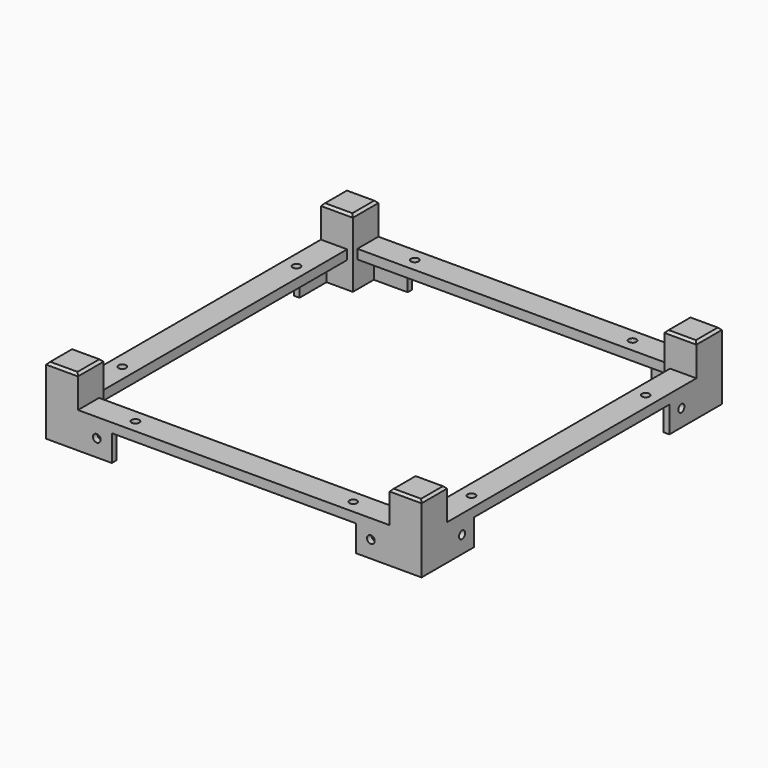
from build123d import *

# Parameters (mm, degrees)
CUBE033_W                     = 9.5
CUBE033_H                     = 9.5
CUBE033_DEPTH                 = 100
CUBE033_ROLL_ANGLE            = 45
CUBE033_PLACEMENT_ANGLE       = 180
CUBE032_W                     = 9.5
CUBE032_H                     = 9.5
CUBE032_DEPTH                 = 100
CUBE032_PLACEMENT_ANGLE       = 45
CUBE035_W                     = 9.5
CUBE035_H                     = 9.5
CUBE035_DEPTH                 = 100
CUBE035_ROLL_ANGLE            = 45
CUBE035_PLACEMENT_ANGLE       = -90
CUBE034_W                     = 9.5
CUBE034_H                     = 9.5
CUBE034_DEPTH                 = 100
CUBE034_PLACEMENT_ANGLE       = 45
CUBE031_W                     = 9.5
CUBE031_H                     = 9.5
CUBE031_DEPTH                 = 100
CUBE031_ROLL_ANGLE            = 45
CUBE031_PLACEMENT_ANGLE       = 90
CUBE030_W                     = 9.5
CUBE030_H                     = 9.5
CUBE030_DEPTH                 = 100
CUBE030_PLACEMENT_ANGLE       = 45
CUBE029_W                     = 8.5
CUBE029_H                     = 8.5
CUBE029_DEPTH                 = 18
DIFFERENCE011_PLACEMENT_ANGLE = 90
CUBE026_W                     = 9.5
CUBE026_H                     = 9.5
CUBE026_DEPTH                 = 100
CUBE026_ROLL_ANGLE            = 45
CUBE026_PLACEMENT_ANGLE       = 180
CUBE025_W                     = 9.5
CUBE025_H                     = 9.5
CUBE025_DEPTH                 = 100
CUBE025_PLACEMENT_ANGLE       = 45
CUBE028_W                     = 9.5
CUBE028_H                     = 9.5
CUBE028_DEPTH                 = 100
CUBE028_ROLL_ANGLE            = 45
CUBE028_PLACEMENT_ANGLE       = -90
CUBE027_W                     = 9.5
CUBE027_H                     = 9.5
CUBE027_DEPTH                 = 100
CUBE027_PLACEMENT_ANGLE       = 45
CUBE024_W                     = 9.5
CUBE024_H                     = 9.5
CUBE024_DEPTH                 = 100
CUBE024_ROLL_ANGLE            = 45
CUBE024_PLACEMENT_ANGLE       = 90
CUBE023_W                     = 9.5
CUBE023_H                     = 9.5
CUBE023_DEPTH                 = 100
CUBE023_PLACEMENT_ANGLE       = 45
CUBE022_W                     = 8.5
CUBE022_H                     = 8.5
CUBE022_DEPTH                 = 18
CUBE047_W                     = 9.5
CUBE047_H                     = 9.5
CUBE047_DEPTH                 = 100
CUBE047_ROLL_ANGLE            = 45
CUBE047_PLACEMENT_ANGLE       = 180
CUBE046_W                     = 9.5
CUBE046_H                     = 9.5
CUBE046_DEPTH                 = 100
CUBE046_PLACEMENT_ANGLE       = 45
CUBE049_W                     = 9.5
CUBE049_H                     = 9.5
CUBE049_DEPTH                 = 100
CUBE049_ROLL_ANGLE            = 45
CUBE049_PLACEMENT_ANGLE       = -90
CUBE048_W                     = 9.5
CUBE048_H                     = 9.5
CUBE048_DEPTH                 = 100
CUBE048_PLACEMENT_ANGLE       = 45
CUBE045_W                     = 9.5
CUBE045_H                     = 9.5
CUBE045_DEPTH                 = 100
CUBE045_ROLL_ANGLE            = 45
CUBE045_PLACEMENT_ANGLE       = 90
CUBE044_W                     = 9.5
CUBE044_H                     = 9.5
CUBE044_DEPTH                 = 100
CUBE044_PLACEMENT_ANGLE       = 45
CUBE043_W                     = 8.5
CUBE043_H                     = 8.5
CUBE043_DEPTH                 = 18
DIFFERENCE013_PLACEMENT_ANGLE = 180
CUBE040_W                     = 9.5
CUBE040_H                     = 9.5
CUBE040_DEPTH                 = 100
CUBE040_ROLL_ANGLE            = 45
CUBE040_PLACEMENT_ANGLE       = 180
CUBE039_W                     = 9.5
CUBE039_H                     = 9.5
CUBE039_DEPTH                 = 100
CUBE039_PLACEMENT_ANGLE       = 45
CUBE042_W                     = 9.5
CUBE042_H                     = 9.5
CUBE042_DEPTH                 = 100
CUBE042_ROLL_ANGLE            = 45
CUBE042_PLACEMENT_ANGLE       = -90
CUBE041_W                     = 9.5
CUBE041_H                     = 9.5
CUBE041_DEPTH                 = 100
CUBE041_PLACEMENT_ANGLE       = 45
CUBE038_W                     = 9.5
CUBE038_H                     = 9.5
CUBE038_DEPTH                 = 100
CUBE038_ROLL_ANGLE            = 45
CUBE038_PLACEMENT_ANGLE       = 90
CUBE037_W                     = 9.5
CUBE037_H                     = 9.5
CUBE037_DEPTH                 = 100
CUBE037_PLACEMENT_ANGLE       = 45
CUBE036_W                     = 8.5
CUBE036_H                     = 8.5
CUBE036_DEPTH                 = 18
CUBE061_W                     = 9.5
CUBE061_H                     = 9.5
CUBE061_DEPTH                 = 100
CUBE061_ROLL_ANGLE            = 45
CUBE061_PLACEMENT_ANGLE       = 180
CUBE060_W                     = 9.5
CUBE060_H                     = 9.5
CUBE060_DEPTH                 = 100
CUBE060_PLACEMENT_ANGLE       = 45
CUBE063_W                     = 9.5
CUBE063_H                     = 9.5
CUBE063_DEPTH                 = 100
CUBE063_ROLL_ANGLE            = 45
CUBE063_PLACEMENT_ANGLE       = -90
CUBE062_W                     = 9.5
CUBE062_H                     = 9.5
CUBE062_DEPTH                 = 100
CUBE062_PLACEMENT_ANGLE       = 45
CUBE059_W                     = 9.5
CUBE059_H                     = 9.5
CUBE059_DEPTH                 = 100
CUBE059_ROLL_ANGLE            = 45
CUBE059_PLACEMENT_ANGLE       = 90
CUBE058_W                     = 9.5
CUBE058_H                     = 9.5
CUBE058_DEPTH                 = 100
CUBE058_PLACEMENT_ANGLE       = 45
CUBE057_W                     = 8.5
CUBE057_H                     = 8.5
CUBE057_DEPTH                 = 18
DIFFERENCE015_PLACEMENT_ANGLE = 90
CUBE054_W                     = 9.5
CUBE054_H                     = 9.5
CUBE054_DEPTH                 = 100
CUBE054_ROLL_ANGLE            = 45
CUBE054_PLACEMENT_ANGLE       = 180
CUBE053_W                     = 9.5
CUBE053_H                     = 9.5
CUBE053_DEPTH                 = 100
CUBE053_PLACEMENT_ANGLE       = 45
CUBE056_W                     = 9.5
CUBE056_H                     = 9.5
CUBE056_DEPTH                 = 100
CUBE056_ROLL_ANGLE            = 45
CUBE056_PLACEMENT_ANGLE       = -90
CUBE055_W                     = 9.5
CUBE055_H                     = 9.5
CUBE055_DEPTH                 = 100
CUBE055_PLACEMENT_ANGLE       = 45
CUBE052_W                     = 9.5
CUBE052_H                     = 9.5
CUBE052_DEPTH                 = 100
CUBE052_ROLL_ANGLE            = 45
CUBE052_PLACEMENT_ANGLE       = 90
CUBE051_W                     = 9.5
CUBE051_H                     = 9.5
CUBE051_DEPTH                 = 100
CUBE051_PLACEMENT_ANGLE       = 45
CUBE050_W                     = 8.5
CUBE050_H                     = 8.5
CUBE050_DEPTH                 = 18
CUBE019_W                     = 9.5
CUBE019_H                     = 9.5
CUBE019_DEPTH                 = 100
CUBE019_ROLL_ANGLE            = 45
CUBE019_PLACEMENT_ANGLE       = 180
CUBE018_W                     = 9.5
CUBE018_H                     = 9.5
CUBE018_DEPTH                 = 100
CUBE018_PLACEMENT_ANGLE       = 45
CUBE021_W                     = 9.5
CUBE021_H                     = 9.5
CUBE021_DEPTH                 = 100
CUBE021_ROLL_ANGLE            = 45
CUBE021_PLACEMENT_ANGLE       = -90
CUBE020_W                     = 9.5
CUBE020_H                     = 9.5
CUBE020_DEPTH                 = 100
CUBE020_PLACEMENT_ANGLE       = 45
CUBE017_W                     = 9.5
CUBE017_H                     = 9.5
CUBE017_DEPTH                 = 100
CUBE017_ROLL_ANGLE            = 45
CUBE017_PLACEMENT_ANGLE       = 90
CUBE016_W                     = 9.5
CUBE016_H                     = 9.5
CUBE016_DEPTH                 = 100
CUBE016_PLACEMENT_ANGLE       = 45
CUBE015_W                     = 8.5
CUBE015_H                     = 8.5
CUBE015_DEPTH                 = 18
CUBE012_W                     = 9.5
CUBE012_H                     = 9.5
CUBE012_DEPTH                 = 100
CUBE012_ROLL_ANGLE            = 45
CUBE012_PLACEMENT_ANGLE       = 180
CUBE011_W                     = 9.5
CUBE011_H                     = 9.5
CUBE011_DEPTH                 = 100
CUBE011_PLACEMENT_ANGLE       = 45
CUBE014_W                     = 9.5
CUBE014_H                     = 9.5
CUBE014_DEPTH                 = 100
CUBE014_ROLL_ANGLE            = 45
CUBE014_PLACEMENT_ANGLE       = -90
CUBE013_W                     = 9.5
CUBE013_H                     = 9.5
CUBE013_DEPTH                 = 100
CUBE013_PLACEMENT_ANGLE       = 45
CUBE010_W                     = 9.5
CUBE010_H                     = 9.5
CUBE010_DEPTH                 = 100
CUBE010_ROLL_ANGLE            = 45
CUBE010_PLACEMENT_ANGLE       = 90
CUBE009_W                     = 9.5
CUBE009_H                     = 9.5
CUBE009_DEPTH                 = 100
CUBE009_PLACEMENT_ANGLE       = 45
CUBE008_W                     = 8.5
CUBE008_H                     = 8.5
CUBE008_DEPTH                 = 18
CYLINDER023_R                 = 1.025
CYLINDER023_DEPTH             = 500
CYLINDER022_R                 = 1.025
CYLINDER022_DEPTH             = 500
CYLINDER021_R                 = 1.025
CYLINDER021_DEPTH             = 500
CYLINDER020_R                 = 1.025
CYLINDER020_DEPTH             = 500
GROUP060_PLACEMENT_ANGLE      = 90
CYLINDER027_R                 = 1.025
CYLINDER027_DEPTH             = 500
CYLINDER026_R                 = 1.025
CYLINDER026_DEPTH             = 500
CYLINDER025_R                 = 1.025
CYLINDER025_DEPTH             = 500
CYLINDER024_R                 = 1.025
CYLINDER024_DEPTH             = 500
GROUP063_PLACEMENT_ANGLE      = 180
CYLINDER031_R                 = 1.025
CYLINDER031_DEPTH             = 500
CYLINDER030_R                 = 1.025
CYLINDER030_DEPTH             = 500
CYLINDER029_R                 = 1.025
CYLINDER029_DEPTH             = 500
CYLINDER028_R                 = 1.025
CYLINDER028_DEPTH             = 500
GROUP066_PLACEMENT_ANGLE      = 90
CYLINDER019_R                 = 1.025
CYLINDER019_DEPTH             = 500
CYLINDER018_R                 = 1.025
CYLINDER018_DEPTH             = 500
CYLINDER017_R                 = 1.025
CYLINDER017_DEPTH             = 500
CYLINDER016_R                 = 1.025
CYLINDER016_DEPTH             = 500
CUBE067_W                     = 1.5
CUBE067_H                     = 9
CUBE067_DEPTH                 = 9.5
CUBE066_W                     = 1.5
CUBE066_H                     = 9
CUBE066_DEPTH                 = 9.5
GROUP051_PLACEMENT_ANGLE      = 90
CUBE069_W                     = 1.5
CUBE069_H                     = 9
CUBE069_DEPTH                 = 9.5
CUBE068_W                     = 1.5
CUBE068_H                     = 9
CUBE068_DEPTH                 = 9.5
GROUP052_PLACEMENT_ANGLE      = 180
CUBE071_W                     = 1.5
CUBE071_H                     = 9
CUBE071_DEPTH                 = 9.5
CUBE070_W                     = 1.5
CUBE070_H                     = 9
CUBE070_DEPTH                 = 9.5
GROUP053_PLACEMENT_ANGLE      = 90
CUBE065_W                     = 1.5
CUBE065_H                     = 9
CUBE065_DEPTH                 = 9.5
CUBE064_W                     = 1.5
CUBE064_H                     = 9
CUBE064_DEPTH                 = 9.5
CYLINDER007_R                 = 1.025
CYLINDER007_DEPTH             = 100
CYLINDER006_R                 = 1.025
CYLINDER006_DEPTH             = 100
CUBE003_W                     = 100
CUBE003_H                     = 7
CUBE003_DEPTH                 = 2.5
DIFFERENCE003_PLACEMENT_ANGLE = 90
CYLINDER005_R                 = 1.025
CYLINDER005_DEPTH             = 100
CYLINDER004_R                 = 1.025
CYLINDER004_DEPTH             = 100
CUBE002_W                     = 100
CUBE002_H                     = 7
CUBE002_DEPTH                 = 2.5
CYLINDER011_R                 = 1.025
CYLINDER011_DEPTH             = 100
CYLINDER010_R                 = 1.025
CYLINDER010_DEPTH             = 100
CUBE005_W                     = 100
CUBE005_H                     = 7
CUBE005_DEPTH                 = 2.5
DIFFERENCE005_PLACEMENT_ANGLE = 180
CYLINDER009_R                 = 1.025
CYLINDER009_DEPTH             = 100
CYLINDER008_R                 = 1.025
CYLINDER008_DEPTH             = 100
CUBE004_W                     = 100
CUBE004_H                     = 7
CUBE004_DEPTH                 = 2.5
CYLINDER015_R                 = 1.025
CYLINDER015_DEPTH             = 100
CYLINDER014_R                 = 1.025
CYLINDER014_DEPTH             = 100
CUBE007_W                     = 100
CUBE007_H                     = 7
CUBE007_DEPTH                 = 2.5
DIFFERENCE007_PLACEMENT_ANGLE = 90
CYLINDER013_R                 = 1.025
CYLINDER013_DEPTH             = 100
CYLINDER012_R                 = 1.025
CYLINDER012_DEPTH             = 100
CUBE006_W                     = 100
CUBE006_H                     = 7
CUBE006_DEPTH                 = 2.5
CYLINDER003_R                 = 1.025
CYLINDER003_DEPTH             = 100
CYLINDER002_R                 = 1.025
CYLINDER002_DEPTH             = 100
CUBE001_W                     = 100
CUBE001_H                     = 7
CUBE001_DEPTH                 = 2.5
CYLINDER001_R                 = 1.025
CYLINDER001_DEPTH             = 100
CYLINDER_R                    = 1.025
CYLINDER_DEPTH                = 100
CUBE_W                        = 100
CUBE_H                        = 7
CUBE_DEPTH                    = 2.5


with BuildPart() as cube033:
    # cube033 → cube033 (new body)
    with BuildSketch(Plane.XY):
        with Locations((4.75, 4.75)):
            Rectangle(CUBE033_W, CUBE033_H)
    extrude(amount=CUBE033_DEPTH)


with BuildPart() as cube033_1:
    # cube033 roll: moved
    add(cube033.part.rotate(Axis((0, 0, 0), (1, 0, 0)), CUBE033_ROLL_ANGLE))


with BuildPart() as cube033_2:
    # cube033 placement: moved
    add(cube033_1.part.moved(Location((4.75, -42.346582, -38.714096))).rotate(Axis((4.75, -42.346582, -38.714096), (0, 0, 1)), CUBE033_PLACEMENT_ANGLE))


with BuildPart() as group027:
    # cube032 → cube032 (new body)
    with BuildSketch(Plane.XY):
        with Locations((4.75, 4.75)):
            Rectangle(CUBE032_W, CUBE032_H)
    extrude(amount=CUBE032_DEPTH)


with BuildPart() as group027_1:
    # cube032 placement: moved
    add(group027.part.moved(Location((-4.75, 42.346582, -38.714096))).rotate(Axis((-4.75, 42.346582, -38.714096), (1, 0, 0)), CUBE032_PLACEMENT_ANGLE))

    # Group027: union cube033
    add(cube033_2.part)


with BuildPart() as cube035:
    # cube035 → cube035 (new body)
    with BuildSketch(Plane.XY):
        with Locations((4.75, 4.75)):
            Rectangle(CUBE035_W, CUBE035_H)
    extrude(amount=CUBE035_DEPTH)


with BuildPart() as cube035_1:
    # cube035 roll: moved
    add(cube035.part.rotate(Axis((0, 0, 0), (1, 0, 0)), CUBE035_ROLL_ANGLE))


with BuildPart() as cube035_2:
    # cube035 placement: moved
    add(cube035_1.part.moved(Location((42.346582, 4.75, -38.714096))).rotate(Axis((42.346582, 4.75, -38.714096), (0, 0, 1)), CUBE035_PLACEMENT_ANGLE))


with BuildPart() as group028:
    # cube034 → cube034 (new body)
    with BuildSketch(Plane.XY):
        with Locations((4.75, 4.75)):
            Rectangle(CUBE034_W, CUBE034_H)
    extrude(amount=CUBE034_DEPTH)


with BuildPart() as group028_1:
    # cube034 placement: moved
    add(group028.part.moved(Location((-4.75, 42.346582, -38.714096))).rotate(Axis((-4.75, 42.346582, -38.714096), (1, 0, 0)), CUBE034_PLACEMENT_ANGLE))

    # Group028: union cube035
    add(cube035_2.part)


with BuildPart() as cube031:
    # cube031 → cube031 (new body)
    with BuildSketch(Plane.XY):
        with Locations((4.75, 4.75)):
            Rectangle(CUBE031_W, CUBE031_H)
    extrude(amount=CUBE031_DEPTH)


with BuildPart() as cube031_1:
    # cube031 roll: moved
    add(cube031.part.rotate(Axis((0, 0, 0), (1, 0, 0)), CUBE031_ROLL_ANGLE))


with BuildPart() as cube031_2:
    # cube031 placement: moved
    add(cube031_1.part.moved(Location((-42.346582, -4.75, -38.714096))).rotate(Axis((-42.346582, -4.75, -38.714096), (0, 0, 1)), CUBE031_PLACEMENT_ANGLE))


with BuildPart() as group029:
    # cube030 → cube030 (new body)
    with BuildSketch(Plane.XY):
        with Locations((4.75, 4.75)):
            Rectangle(CUBE030_W, CUBE030_H)
    extrude(amount=CUBE030_DEPTH)


with BuildPart() as group029_1:
    # cube030 placement: moved
    add(group029.part.moved(Location((-4.75, 42.346582, -38.714096))).rotate(Axis((-4.75, 42.346582, -38.714096), (1, 0, 0)), CUBE030_PLACEMENT_ANGLE))

    # Group026: union cube031
    add(cube031_2.part)

    # Group029: union Group027, Group028
    add(group027_1.part)
    add(group028_1.part)


with BuildPart() as difference011:
    # cube029 → cube029 (new body)
    with BuildSketch(Plane(origin=(-4.25, -4.25, -18), x_dir=(1, 0, 0), z_dir=(0, 0, 1))):
        with Locations((4.25, 4.25)):
            Rectangle(CUBE029_W, CUBE029_H)
    extrude(amount=CUBE029_DEPTH)

    # difference011: cut Group029
    add(group029_1.part, mode=Mode.SUBTRACT)


with BuildPart() as difference011_1:
    # difference011 placement: moved
    add(difference011.part.moved(Location((45.75, -45.75, 8.5))).rotate(Axis((45.75, -45.75, 8.5), (0, 0, 1)), DIFFERENCE011_PLACEMENT_ANGLE))


with BuildPart() as cube026:
    # cube026 → cube026 (new body)
    with BuildSketch(Plane.XY):
        with Locations((4.75, 4.75)):
            Rectangle(CUBE026_W, CUBE026_H)
    extrude(amount=CUBE026_DEPTH)


with BuildPart() as cube026_1:
    # cube026 roll: moved
    add(cube026.part.rotate(Axis((0, 0, 0), (1, 0, 0)), CUBE026_ROLL_ANGLE))


with BuildPart() as cube026_2:
    # cube026 placement: moved
    add(cube026_1.part.moved(Location((4.75, -42.346582, -38.714096))).rotate(Axis((4.75, -42.346582, -38.714096), (0, 0, 1)), CUBE026_PLACEMENT_ANGLE))


with BuildPart() as group023:
    # cube025 → cube025 (new body)
    with BuildSketch(Plane.XY):
        with Locations((4.75, 4.75)):
            Rectangle(CUBE025_W, CUBE025_H)
    extrude(amount=CUBE025_DEPTH)


with BuildPart() as group023_1:
    # cube025 placement: moved
    add(group023.part.moved(Location((-4.75, 42.346582, -38.714096))).rotate(Axis((-4.75, 42.346582, -38.714096), (1, 0, 0)), CUBE025_PLACEMENT_ANGLE))

    # Group023: union cube026
    add(cube026_2.part)


with BuildPart() as cube028:
    # cube028 → cube028 (new body)
    with BuildSketch(Plane.XY):
        with Locations((4.75, 4.75)):
            Rectangle(CUBE028_W, CUBE028_H)
    extrude(amount=CUBE028_DEPTH)


with BuildPart() as cube028_1:
    # cube028 roll: moved
    add(cube028.part.rotate(Axis((0, 0, 0), (1, 0, 0)), CUBE028_ROLL_ANGLE))


with BuildPart() as cube028_2:
    # cube028 placement: moved
    add(cube028_1.part.moved(Location((42.346582, 4.75, -38.714096))).rotate(Axis((42.346582, 4.75, -38.714096), (0, 0, 1)), CUBE028_PLACEMENT_ANGLE))


with BuildPart() as group024:
    # cube027 → cube027 (new body)
    with BuildSketch(Plane.XY):
        with Locations((4.75, 4.75)):
            Rectangle(CUBE027_W, CUBE027_H)
    extrude(amount=CUBE027_DEPTH)


with BuildPart() as group024_1:
    # cube027 placement: moved
    add(group024.part.moved(Location((-4.75, 42.346582, -38.714096))).rotate(Axis((-4.75, 42.346582, -38.714096), (1, 0, 0)), CUBE027_PLACEMENT_ANGLE))

    # Group024: union cube028
    add(cube028_2.part)


with BuildPart() as cube024:
    # cube024 → cube024 (new body)
    with BuildSketch(Plane.XY):
        with Locations((4.75, 4.75)):
            Rectangle(CUBE024_W, CUBE024_H)
    extrude(amount=CUBE024_DEPTH)


with BuildPart() as cube024_1:
    # cube024 roll: moved
    add(cube024.part.rotate(Axis((0, 0, 0), (1, 0, 0)), CUBE024_ROLL_ANGLE))


with BuildPart() as cube024_2:
    # cube024 placement: moved
    add(cube024_1.part.moved(Location((-42.346582, -4.75, -38.714096))).rotate(Axis((-42.346582, -4.75, -38.714096), (0, 0, 1)), CUBE024_PLACEMENT_ANGLE))


with BuildPart() as group025:
    # cube023 → cube023 (new body)
    with BuildSketch(Plane.XY):
        with Locations((4.75, 4.75)):
            Rectangle(CUBE023_W, CUBE023_H)
    extrude(amount=CUBE023_DEPTH)


with BuildPart() as group025_1:
    # cube023 placement: moved
    add(group025.part.moved(Location((-4.75, 42.346582, -38.714096))).rotate(Axis((-4.75, 42.346582, -38.714096), (1, 0, 0)), CUBE023_PLACEMENT_ANGLE))

    # Group022: union cube024
    add(cube024_2.part)

    # Group025: union Group023, Group024
    add(group023_1.part)
    add(group024_1.part)


with BuildPart() as group030:
    # cube022 → cube022 (new body)
    with BuildSketch(Plane(origin=(-4.25, -4.25, -18), x_dir=(1, 0, 0), z_dir=(0, 0, 1))):
        with Locations((4.25, 4.25)):
            Rectangle(CUBE022_W, CUBE022_H)
    extrude(amount=CUBE022_DEPTH)

    # difference010: cut Group025
    add(group025_1.part, mode=Mode.SUBTRACT)


with BuildPart() as group030_1:
    # difference010 placement: moved
    add(group030.part.moved(Location((-45.75, -45.75, 8.5))))

    # Group030: union difference011
    add(difference011_1.part)


with BuildPart() as cube047:
    # cube047 → cube047 (new body)
    with BuildSketch(Plane.XY):
        with Locations((4.75, 4.75)):
            Rectangle(CUBE047_W, CUBE047_H)
    extrude(amount=CUBE047_DEPTH)


with BuildPart() as cube047_1:
    # cube047 roll: moved
    add(cube047.part.rotate(Axis((0, 0, 0), (1, 0, 0)), CUBE047_ROLL_ANGLE))


with BuildPart() as cube047_2:
    # cube047 placement: moved
    add(cube047_1.part.moved(Location((4.75, -42.346582, -38.714096))).rotate(Axis((4.75, -42.346582, -38.714096), (0, 0, 1)), CUBE047_PLACEMENT_ANGLE))


with BuildPart() as group036:
    # cube046 → cube046 (new body)
    with BuildSketch(Plane.XY):
        with Locations((4.75, 4.75)):
            Rectangle(CUBE046_W, CUBE046_H)
    extrude(amount=CUBE046_DEPTH)


with BuildPart() as group036_1:
    # cube046 placement: moved
    add(group036.part.moved(Location((-4.75, 42.346582, -38.714096))).rotate(Axis((-4.75, 42.346582, -38.714096), (1, 0, 0)), CUBE046_PLACEMENT_ANGLE))

    # Group036: union cube047
    add(cube047_2.part)


with BuildPart() as cube049:
    # cube049 → cube049 (new body)
    with BuildSketch(Plane.XY):
        with Locations((4.75, 4.75)):
            Rectangle(CUBE049_W, CUBE049_H)
    extrude(amount=CUBE049_DEPTH)


with BuildPart() as cube049_1:
    # cube049 roll: moved
    add(cube049.part.rotate(Axis((0, 0, 0), (1, 0, 0)), CUBE049_ROLL_ANGLE))


with BuildPart() as cube049_2:
    # cube049 placement: moved
    add(cube049_1.part.moved(Location((42.346582, 4.75, -38.714096))).rotate(Axis((42.346582, 4.75, -38.714096), (0, 0, 1)), CUBE049_PLACEMENT_ANGLE))


with BuildPart() as group037:
    # cube048 → cube048 (new body)
    with BuildSketch(Plane.XY):
        with Locations((4.75, 4.75)):
            Rectangle(CUBE048_W, CUBE048_H)
    extrude(amount=CUBE048_DEPTH)


with BuildPart() as group037_1:
    # cube048 placement: moved
    add(group037.part.moved(Location((-4.75, 42.346582, -38.714096))).rotate(Axis((-4.75, 42.346582, -38.714096), (1, 0, 0)), CUBE048_PLACEMENT_ANGLE))

    # Group037: union cube049
    add(cube049_2.part)


with BuildPart() as cube045:
    # cube045 → cube045 (new body)
    with BuildSketch(Plane.XY):
        with Locations((4.75, 4.75)):
            Rectangle(CUBE045_W, CUBE045_H)
    extrude(amount=CUBE045_DEPTH)


with BuildPart() as cube045_1:
    # cube045 roll: moved
    add(cube045.part.rotate(Axis((0, 0, 0), (1, 0, 0)), CUBE045_ROLL_ANGLE))


with BuildPart() as cube045_2:
    # cube045 placement: moved
    add(cube045_1.part.moved(Location((-42.346582, -4.75, -38.714096))).rotate(Axis((-42.346582, -4.75, -38.714096), (0, 0, 1)), CUBE045_PLACEMENT_ANGLE))


with BuildPart() as group038:
    # cube044 → cube044 (new body)
    with BuildSketch(Plane.XY):
        with Locations((4.75, 4.75)):
            Rectangle(CUBE044_W, CUBE044_H)
    extrude(amount=CUBE044_DEPTH)


with BuildPart() as group038_1:
    # cube044 placement: moved
    add(group038.part.moved(Location((-4.75, 42.346582, -38.714096))).rotate(Axis((-4.75, 42.346582, -38.714096), (1, 0, 0)), CUBE044_PLACEMENT_ANGLE))

    # Group035: union cube045
    add(cube045_2.part)

    # Group038: union Group036, Group037
    add(group036_1.part)
    add(group037_1.part)


with BuildPart() as difference013:
    # cube043 → cube043 (new body)
    with BuildSketch(Plane(origin=(-4.25, -4.25, -18), x_dir=(1, 0, 0), z_dir=(0, 0, 1))):
        with Locations((4.25, 4.25)):
            Rectangle(CUBE043_W, CUBE043_H)
    extrude(amount=CUBE043_DEPTH)

    # difference013: cut Group038
    add(group038_1.part, mode=Mode.SUBTRACT)


with BuildPart() as difference013_1:
    # difference013 placement: moved
    add(difference013.part.moved(Location((45.75, 45.75, 8.5))).rotate(Axis((45.75, 45.75, 8.5), (0, 0, 1)), DIFFERENCE013_PLACEMENT_ANGLE))


with BuildPart() as cube040:
    # cube040 → cube040 (new body)
    with BuildSketch(Plane.XY):
        with Locations((4.75, 4.75)):
            Rectangle(CUBE040_W, CUBE040_H)
    extrude(amount=CUBE040_DEPTH)


with BuildPart() as cube040_1:
    # cube040 roll: moved
    add(cube040.part.rotate(Axis((0, 0, 0), (1, 0, 0)), CUBE040_ROLL_ANGLE))


with BuildPart() as cube040_2:
    # cube040 placement: moved
    add(cube040_1.part.moved(Location((4.75, -42.346582, -38.714096))).rotate(Axis((4.75, -42.346582, -38.714096), (0, 0, 1)), CUBE040_PLACEMENT_ANGLE))


with BuildPart() as group032:
    # cube039 → cube039 (new body)
    with BuildSketch(Plane.XY):
        with Locations((4.75, 4.75)):
            Rectangle(CUBE039_W, CUBE039_H)
    extrude(amount=CUBE039_DEPTH)


with BuildPart() as group032_1:
    # cube039 placement: moved
    add(group032.part.moved(Location((-4.75, 42.346582, -38.714096))).rotate(Axis((-4.75, 42.346582, -38.714096), (1, 0, 0)), CUBE039_PLACEMENT_ANGLE))

    # Group032: union cube040
    add(cube040_2.part)


with BuildPart() as cube042:
    # cube042 → cube042 (new body)
    with BuildSketch(Plane.XY):
        with Locations((4.75, 4.75)):
            Rectangle(CUBE042_W, CUBE042_H)
    extrude(amount=CUBE042_DEPTH)


with BuildPart() as cube042_1:
    # cube042 roll: moved
    add(cube042.part.rotate(Axis((0, 0, 0), (1, 0, 0)), CUBE042_ROLL_ANGLE))


with BuildPart() as cube042_2:
    # cube042 placement: moved
    add(cube042_1.part.moved(Location((42.346582, 4.75, -38.714096))).rotate(Axis((42.346582, 4.75, -38.714096), (0, 0, 1)), CUBE042_PLACEMENT_ANGLE))


with BuildPart() as group033:
    # cube041 → cube041 (new body)
    with BuildSketch(Plane.XY):
        with Locations((4.75, 4.75)):
            Rectangle(CUBE041_W, CUBE041_H)
    extrude(amount=CUBE041_DEPTH)


with BuildPart() as group033_1:
    # cube041 placement: moved
    add(group033.part.moved(Location((-4.75, 42.346582, -38.714096))).rotate(Axis((-4.75, 42.346582, -38.714096), (1, 0, 0)), CUBE041_PLACEMENT_ANGLE))

    # Group033: union cube042
    add(cube042_2.part)


with BuildPart() as cube038:
    # cube038 → cube038 (new body)
    with BuildSketch(Plane.XY):
        with Locations((4.75, 4.75)):
            Rectangle(CUBE038_W, CUBE038_H)
    extrude(amount=CUBE038_DEPTH)


with BuildPart() as cube038_1:
    # cube038 roll: moved
    add(cube038.part.rotate(Axis((0, 0, 0), (1, 0, 0)), CUBE038_ROLL_ANGLE))


with BuildPart() as cube038_2:
    # cube038 placement: moved
    add(cube038_1.part.moved(Location((-42.346582, -4.75, -38.714096))).rotate(Axis((-42.346582, -4.75, -38.714096), (0, 0, 1)), CUBE038_PLACEMENT_ANGLE))


with BuildPart() as group034:
    # cube037 → cube037 (new body)
    with BuildSketch(Plane.XY):
        with Locations((4.75, 4.75)):
            Rectangle(CUBE037_W, CUBE037_H)
    extrude(amount=CUBE037_DEPTH)


with BuildPart() as group034_1:
    # cube037 placement: moved
    add(group034.part.moved(Location((-4.75, 42.346582, -38.714096))).rotate(Axis((-4.75, 42.346582, -38.714096), (1, 0, 0)), CUBE037_PLACEMENT_ANGLE))

    # Group031: union cube038
    add(cube038_2.part)

    # Group034: union Group032, Group033
    add(group032_1.part)
    add(group033_1.part)


with BuildPart() as group039:
    # cube036 → cube036 (new body)
    with BuildSketch(Plane(origin=(-4.25, -4.25, -18), x_dir=(1, 0, 0), z_dir=(0, 0, 1))):
        with Locations((4.25, 4.25)):
            Rectangle(CUBE036_W, CUBE036_H)
    extrude(amount=CUBE036_DEPTH)

    # difference012: cut Group034
    add(group034_1.part, mode=Mode.SUBTRACT)


with BuildPart() as group039_1:
    # difference012 placement: moved
    add(group039.part.moved(Location((-45.75, -45.75, 8.5))))

    # Group039: union difference013
    add(difference013_1.part)


with BuildPart() as cube061:
    # cube061 → cube061 (new body)
    with BuildSketch(Plane.XY):
        with Locations((4.75, 4.75)):
            Rectangle(CUBE061_W, CUBE061_H)
    extrude(amount=CUBE061_DEPTH)


with BuildPart() as cube061_1:
    # cube061 roll: moved
    add(cube061.part.rotate(Axis((0, 0, 0), (1, 0, 0)), CUBE061_ROLL_ANGLE))


with BuildPart() as cube061_2:
    # cube061 placement: moved
    add(cube061_1.part.moved(Location((4.75, -42.346582, -38.714096))).rotate(Axis((4.75, -42.346582, -38.714096), (0, 0, 1)), CUBE061_PLACEMENT_ANGLE))


with BuildPart() as group045:
    # cube060 → cube060 (new body)
    with BuildSketch(Plane.XY):
        with Locations((4.75, 4.75)):
            Rectangle(CUBE060_W, CUBE060_H)
    extrude(amount=CUBE060_DEPTH)


with BuildPart() as group045_1:
    # cube060 placement: moved
    add(group045.part.moved(Location((-4.75, 42.346582, -38.714096))).rotate(Axis((-4.75, 42.346582, -38.714096), (1, 0, 0)), CUBE060_PLACEMENT_ANGLE))

    # Group045: union cube061
    add(cube061_2.part)


with BuildPart() as cube063:
    # cube063 → cube063 (new body)
    with BuildSketch(Plane.XY):
        with Locations((4.75, 4.75)):
            Rectangle(CUBE063_W, CUBE063_H)
    extrude(amount=CUBE063_DEPTH)


with BuildPart() as cube063_1:
    # cube063 roll: moved
    add(cube063.part.rotate(Axis((0, 0, 0), (1, 0, 0)), CUBE063_ROLL_ANGLE))


with BuildPart() as cube063_2:
    # cube063 placement: moved
    add(cube063_1.part.moved(Location((42.346582, 4.75, -38.714096))).rotate(Axis((42.346582, 4.75, -38.714096), (0, 0, 1)), CUBE063_PLACEMENT_ANGLE))


with BuildPart() as group046:
    # cube062 → cube062 (new body)
    with BuildSketch(Plane.XY):
        with Locations((4.75, 4.75)):
            Rectangle(CUBE062_W, CUBE062_H)
    extrude(amount=CUBE062_DEPTH)


with BuildPart() as group046_1:
    # cube062 placement: moved
    add(group046.part.moved(Location((-4.75, 42.346582, -38.714096))).rotate(Axis((-4.75, 42.346582, -38.714096), (1, 0, 0)), CUBE062_PLACEMENT_ANGLE))

    # Group046: union cube063
    add(cube063_2.part)


with BuildPart() as cube059:
    # cube059 → cube059 (new body)
    with BuildSketch(Plane.XY):
        with Locations((4.75, 4.75)):
            Rectangle(CUBE059_W, CUBE059_H)
    extrude(amount=CUBE059_DEPTH)


with BuildPart() as cube059_1:
    # cube059 roll: moved
    add(cube059.part.rotate(Axis((0, 0, 0), (1, 0, 0)), CUBE059_ROLL_ANGLE))


with BuildPart() as cube059_2:
    # cube059 placement: moved
    add(cube059_1.part.moved(Location((-42.346582, -4.75, -38.714096))).rotate(Axis((-42.346582, -4.75, -38.714096), (0, 0, 1)), CUBE059_PLACEMENT_ANGLE))


with BuildPart() as group047:
    # cube058 → cube058 (new body)
    with BuildSketch(Plane.XY):
        with Locations((4.75, 4.75)):
            Rectangle(CUBE058_W, CUBE058_H)
    extrude(amount=CUBE058_DEPTH)


with BuildPart() as group047_1:
    # cube058 placement: moved
    add(group047.part.moved(Location((-4.75, 42.346582, -38.714096))).rotate(Axis((-4.75, 42.346582, -38.714096), (1, 0, 0)), CUBE058_PLACEMENT_ANGLE))

    # Group044: union cube059
    add(cube059_2.part)

    # Group047: union Group045, Group046
    add(group045_1.part)
    add(group046_1.part)


with BuildPart() as difference015:
    # cube057 → cube057 (new body)
    with BuildSketch(Plane(origin=(-4.25, -4.25, -18), x_dir=(1, 0, 0), z_dir=(0, 0, 1))):
        with Locations((4.25, 4.25)):
            Rectangle(CUBE057_W, CUBE057_H)
    extrude(amount=CUBE057_DEPTH)

    # difference015: cut Group047
    add(group047_1.part, mode=Mode.SUBTRACT)


with BuildPart() as difference015_1:
    # difference015 placement: moved
    add(difference015.part.moved(Location((-45.75, 45.75, 8.5))).rotate(Axis((-45.75, 45.75, 8.5), (0, 0, -1)), DIFFERENCE015_PLACEMENT_ANGLE))


with BuildPart() as cube054:
    # cube054 → cube054 (new body)
    with BuildSketch(Plane.XY):
        with Locations((4.75, 4.75)):
            Rectangle(CUBE054_W, CUBE054_H)
    extrude(amount=CUBE054_DEPTH)


with BuildPart() as cube054_1:
    # cube054 roll: moved
    add(cube054.part.rotate(Axis((0, 0, 0), (1, 0, 0)), CUBE054_ROLL_ANGLE))


with BuildPart() as cube054_2:
    # cube054 placement: moved
    add(cube054_1.part.moved(Location((4.75, -42.346582, -38.714096))).rotate(Axis((4.75, -42.346582, -38.714096), (0, 0, 1)), CUBE054_PLACEMENT_ANGLE))


with BuildPart() as group041:
    # cube053 → cube053 (new body)
    with BuildSketch(Plane.XY):
        with Locations((4.75, 4.75)):
            Rectangle(CUBE053_W, CUBE053_H)
    extrude(amount=CUBE053_DEPTH)


with BuildPart() as group041_1:
    # cube053 placement: moved
    add(group041.part.moved(Location((-4.75, 42.346582, -38.714096))).rotate(Axis((-4.75, 42.346582, -38.714096), (1, 0, 0)), CUBE053_PLACEMENT_ANGLE))

    # Group041: union cube054
    add(cube054_2.part)


with BuildPart() as cube056:
    # cube056 → cube056 (new body)
    with BuildSketch(Plane.XY):
        with Locations((4.75, 4.75)):
            Rectangle(CUBE056_W, CUBE056_H)
    extrude(amount=CUBE056_DEPTH)


with BuildPart() as cube056_1:
    # cube056 roll: moved
    add(cube056.part.rotate(Axis((0, 0, 0), (1, 0, 0)), CUBE056_ROLL_ANGLE))


with BuildPart() as cube056_2:
    # cube056 placement: moved
    add(cube056_1.part.moved(Location((42.346582, 4.75, -38.714096))).rotate(Axis((42.346582, 4.75, -38.714096), (0, 0, 1)), CUBE056_PLACEMENT_ANGLE))


with BuildPart() as group042:
    # cube055 → cube055 (new body)
    with BuildSketch(Plane.XY):
        with Locations((4.75, 4.75)):
            Rectangle(CUBE055_W, CUBE055_H)
    extrude(amount=CUBE055_DEPTH)


with BuildPart() as group042_1:
    # cube055 placement: moved
    add(group042.part.moved(Location((-4.75, 42.346582, -38.714096))).rotate(Axis((-4.75, 42.346582, -38.714096), (1, 0, 0)), CUBE055_PLACEMENT_ANGLE))

    # Group042: union cube056
    add(cube056_2.part)


with BuildPart() as cube052:
    # cube052 → cube052 (new body)
    with BuildSketch(Plane.XY):
        with Locations((4.75, 4.75)):
            Rectangle(CUBE052_W, CUBE052_H)
    extrude(amount=CUBE052_DEPTH)


with BuildPart() as cube052_1:
    # cube052 roll: moved
    add(cube052.part.rotate(Axis((0, 0, 0), (1, 0, 0)), CUBE052_ROLL_ANGLE))


with BuildPart() as cube052_2:
    # cube052 placement: moved
    add(cube052_1.part.moved(Location((-42.346582, -4.75, -38.714096))).rotate(Axis((-42.346582, -4.75, -38.714096), (0, 0, 1)), CUBE052_PLACEMENT_ANGLE))


with BuildPart() as group043:
    # cube051 → cube051 (new body)
    with BuildSketch(Plane.XY):
        with Locations((4.75, 4.75)):
            Rectangle(CUBE051_W, CUBE051_H)
    extrude(amount=CUBE051_DEPTH)


with BuildPart() as group043_1:
    # cube051 placement: moved
    add(group043.part.moved(Location((-4.75, 42.346582, -38.714096))).rotate(Axis((-4.75, 42.346582, -38.714096), (1, 0, 0)), CUBE051_PLACEMENT_ANGLE))

    # Group040: union cube052
    add(cube052_2.part)

    # Group043: union Group041, Group042
    add(group041_1.part)
    add(group042_1.part)


with BuildPart() as group048:
    # cube050 → cube050 (new body)
    with BuildSketch(Plane(origin=(-4.25, -4.25, -18), x_dir=(1, 0, 0), z_dir=(0, 0, 1))):
        with Locations((4.25, 4.25)):
            Rectangle(CUBE050_W, CUBE050_H)
    extrude(amount=CUBE050_DEPTH)

    # difference014: cut Group043
    add(group043_1.part, mode=Mode.SUBTRACT)


with BuildPart() as group048_1:
    # difference014 placement: moved
    add(group048.part.moved(Location((-45.75, -45.75, 8.5))))

    # Group048: union difference015
    add(difference015_1.part)


with BuildPart() as cube019:
    # cube019 → cube019 (new body)
    with BuildSketch(Plane.XY):
        with Locations((4.75, 4.75)):
            Rectangle(CUBE019_W, CUBE019_H)
    extrude(amount=CUBE019_DEPTH)


with BuildPart() as cube019_1:
    # cube019 roll: moved
    add(cube019.part.rotate(Axis((0, 0, 0), (1, 0, 0)), CUBE019_ROLL_ANGLE))


with BuildPart() as cube019_2:
    # cube019 placement: moved
    add(cube019_1.part.moved(Location((4.75, -42.346582, -38.714096))).rotate(Axis((4.75, -42.346582, -38.714096), (0, 0, 1)), CUBE019_PLACEMENT_ANGLE))


with BuildPart() as group018:
    # cube018 → cube018 (new body)
    with BuildSketch(Plane.XY):
        with Locations((4.75, 4.75)):
            Rectangle(CUBE018_W, CUBE018_H)
    extrude(amount=CUBE018_DEPTH)


with BuildPart() as group018_1:
    # cube018 placement: moved
    add(group018.part.moved(Location((-4.75, 42.346582, -38.714096))).rotate(Axis((-4.75, 42.346582, -38.714096), (1, 0, 0)), CUBE018_PLACEMENT_ANGLE))

    # Group018: union cube019
    add(cube019_2.part)


with BuildPart() as cube021:
    # cube021 → cube021 (new body)
    with BuildSketch(Plane.XY):
        with Locations((4.75, 4.75)):
            Rectangle(CUBE021_W, CUBE021_H)
    extrude(amount=CUBE021_DEPTH)


with BuildPart() as cube021_1:
    # cube021 roll: moved
    add(cube021.part.rotate(Axis((0, 0, 0), (1, 0, 0)), CUBE021_ROLL_ANGLE))


with BuildPart() as cube021_2:
    # cube021 placement: moved
    add(cube021_1.part.moved(Location((42.346582, 4.75, -38.714096))).rotate(Axis((42.346582, 4.75, -38.714096), (0, 0, 1)), CUBE021_PLACEMENT_ANGLE))


with BuildPart() as group019:
    # cube020 → cube020 (new body)
    with BuildSketch(Plane.XY):
        with Locations((4.75, 4.75)):
            Rectangle(CUBE020_W, CUBE020_H)
    extrude(amount=CUBE020_DEPTH)


with BuildPart() as group019_1:
    # cube020 placement: moved
    add(group019.part.moved(Location((-4.75, 42.346582, -38.714096))).rotate(Axis((-4.75, 42.346582, -38.714096), (1, 0, 0)), CUBE020_PLACEMENT_ANGLE))

    # Group019: union cube021
    add(cube021_2.part)


with BuildPart() as cube017:
    # cube017 → cube017 (new body)
    with BuildSketch(Plane.XY):
        with Locations((4.75, 4.75)):
            Rectangle(CUBE017_W, CUBE017_H)
    extrude(amount=CUBE017_DEPTH)


with BuildPart() as cube017_1:
    # cube017 roll: moved
    add(cube017.part.rotate(Axis((0, 0, 0), (1, 0, 0)), CUBE017_ROLL_ANGLE))


with BuildPart() as cube017_2:
    # cube017 placement: moved
    add(cube017_1.part.moved(Location((-42.346582, -4.75, -38.714096))).rotate(Axis((-42.346582, -4.75, -38.714096), (0, 0, 1)), CUBE017_PLACEMENT_ANGLE))


with BuildPart() as group020:
    # cube016 → cube016 (new body)
    with BuildSketch(Plane.XY):
        with Locations((4.75, 4.75)):
            Rectangle(CUBE016_W, CUBE016_H)
    extrude(amount=CUBE016_DEPTH)


with BuildPart() as group020_1:
    # cube016 placement: moved
    add(group020.part.moved(Location((-4.75, 42.346582, -38.714096))).rotate(Axis((-4.75, 42.346582, -38.714096), (1, 0, 0)), CUBE016_PLACEMENT_ANGLE))

    # Group017: union cube017
    add(cube017_2.part)

    # Group020: union Group018, Group019
    add(group018_1.part)
    add(group019_1.part)


with BuildPart() as difference009:
    # cube015 → cube015 (new body)
    with BuildSketch(Plane(origin=(-4.25, -4.25, -18), x_dir=(1, 0, 0), z_dir=(0, 0, 1))):
        with Locations((4.25, 4.25)):
            Rectangle(CUBE015_W, CUBE015_H)
    extrude(amount=CUBE015_DEPTH)

    # difference009: cut Group020
    add(group020_1.part, mode=Mode.SUBTRACT)


with BuildPart() as difference009_1:
    # difference009 placement: moved
    add(difference009.part.moved(Location((-45.75, -45.75, 8.5))))


with BuildPart() as cube012:
    # cube012 → cube012 (new body)
    with BuildSketch(Plane.XY):
        with Locations((4.75, 4.75)):
            Rectangle(CUBE012_W, CUBE012_H)
    extrude(amount=CUBE012_DEPTH)


with BuildPart() as cube012_1:
    # cube012 roll: moved
    add(cube012.part.rotate(Axis((0, 0, 0), (1, 0, 0)), CUBE012_ROLL_ANGLE))


with BuildPart() as cube012_2:
    # cube012 placement: moved
    add(cube012_1.part.moved(Location((4.75, -42.346582, -38.714096))).rotate(Axis((4.75, -42.346582, -38.714096), (0, 0, 1)), CUBE012_PLACEMENT_ANGLE))


with BuildPart() as group014:
    # cube011 → cube011 (new body)
    with BuildSketch(Plane.XY):
        with Locations((4.75, 4.75)):
            Rectangle(CUBE011_W, CUBE011_H)
    extrude(amount=CUBE011_DEPTH)


with BuildPart() as group014_1:
    # cube011 placement: moved
    add(group014.part.moved(Location((-4.75, 42.346582, -38.714096))).rotate(Axis((-4.75, 42.346582, -38.714096), (1, 0, 0)), CUBE011_PLACEMENT_ANGLE))

    # Group014: union cube012
    add(cube012_2.part)


with BuildPart() as cube014:
    # cube014 → cube014 (new body)
    with BuildSketch(Plane.XY):
        with Locations((4.75, 4.75)):
            Rectangle(CUBE014_W, CUBE014_H)
    extrude(amount=CUBE014_DEPTH)


with BuildPart() as cube014_1:
    # cube014 roll: moved
    add(cube014.part.rotate(Axis((0, 0, 0), (1, 0, 0)), CUBE014_ROLL_ANGLE))


with BuildPart() as cube014_2:
    # cube014 placement: moved
    add(cube014_1.part.moved(Location((42.346582, 4.75, -38.714096))).rotate(Axis((42.346582, 4.75, -38.714096), (0, 0, 1)), CUBE014_PLACEMENT_ANGLE))


with BuildPart() as group015:
    # cube013 → cube013 (new body)
    with BuildSketch(Plane.XY):
        with Locations((4.75, 4.75)):
            Rectangle(CUBE013_W, CUBE013_H)
    extrude(amount=CUBE013_DEPTH)


with BuildPart() as group015_1:
    # cube013 placement: moved
    add(group015.part.moved(Location((-4.75, 42.346582, -38.714096))).rotate(Axis((-4.75, 42.346582, -38.714096), (1, 0, 0)), CUBE013_PLACEMENT_ANGLE))

    # Group015: union cube014
    add(cube014_2.part)


with BuildPart() as cube010:
    # cube010 → cube010 (new body)
    with BuildSketch(Plane.XY):
        with Locations((4.75, 4.75)):
            Rectangle(CUBE010_W, CUBE010_H)
    extrude(amount=CUBE010_DEPTH)


with BuildPart() as cube010_1:
    # cube010 roll: moved
    add(cube010.part.rotate(Axis((0, 0, 0), (1, 0, 0)), CUBE010_ROLL_ANGLE))


with BuildPart() as cube010_2:
    # cube010 placement: moved
    add(cube010_1.part.moved(Location((-42.346582, -4.75, -38.714096))).rotate(Axis((-42.346582, -4.75, -38.714096), (0, 0, 1)), CUBE010_PLACEMENT_ANGLE))


with BuildPart() as group016:
    # cube009 → cube009 (new body)
    with BuildSketch(Plane.XY):
        with Locations((4.75, 4.75)):
            Rectangle(CUBE009_W, CUBE009_H)
    extrude(amount=CUBE009_DEPTH)


with BuildPart() as group016_1:
    # cube009 placement: moved
    add(group016.part.moved(Location((-4.75, 42.346582, -38.714096))).rotate(Axis((-4.75, 42.346582, -38.714096), (1, 0, 0)), CUBE009_PLACEMENT_ANGLE))

    # Group013: union cube010
    add(cube010_2.part)

    # Group016: union Group014, Group015
    add(group014_1.part)
    add(group015_1.part)


with BuildPart() as group049:
    # cube008 → cube008 (new body)
    with BuildSketch(Plane(origin=(-4.25, -4.25, -18), x_dir=(1, 0, 0), z_dir=(0, 0, 1))):
        with Locations((4.25, 4.25)):
            Rectangle(CUBE008_W, CUBE008_H)
    extrude(amount=CUBE008_DEPTH)

    # difference008: cut Group016
    add(group016_1.part, mode=Mode.SUBTRACT)


with BuildPart() as group049_1:
    # difference008 placement: moved
    add(group049.part.moved(Location((-45.75, -45.75, 8.5))))

    # Group021: union difference009
    add(difference009_1.part)

    # Group049: union Group030, Group039, Group048
    add(group030_1.part)
    add(group039_1.part)
    add(group048_1.part)


with BuildPart() as cylinder023:
    # cylinder023 → cylinder023 (new body)
    with BuildSketch(Plane(origin=(-250, -29, -5), x_dir=(0, 0, -1), z_dir=(1, 0, 0))):
        Circle(CYLINDER023_R)
    extrude(amount=CYLINDER023_DEPTH)


with BuildPart() as group059:
    # cylinder022 → cylinder022 (new body)
    with BuildSketch(Plane(origin=(-250, -36.5, -5), x_dir=(0, 0, -1), z_dir=(1, 0, 0))):
        Circle(CYLINDER022_R)
    extrude(amount=CYLINDER022_DEPTH)

    # Group059: union cylinder023
    add(cylinder023.part)


with BuildPart() as mirrored_group059:
    # mirr_Group059: instance of Group059
    add(group059.part.mirror(Plane(origin=(0, 0, 0), x_dir=(1, 0, 0), z_dir=(0, 1, 0))))


with BuildPart() as cylinder021:
    # cylinder021 → cylinder021 (new body)
    with BuildSketch(Plane(origin=(-250, -29, -5), x_dir=(0, 0, -1), z_dir=(1, 0, 0))):
        Circle(CYLINDER021_R)
    extrude(amount=CYLINDER021_DEPTH)


with BuildPart() as group060:
    # cylinder020 → cylinder020 (new body)
    with BuildSketch(Plane(origin=(-250, -36.5, -5), x_dir=(0, 0, -1), z_dir=(1, 0, 0))):
        Circle(CYLINDER020_R)
    extrude(amount=CYLINDER020_DEPTH)

    # Group058: union cylinder021
    add(cylinder021.part)

    # Group060: union mirrored Group059
    add(mirrored_group059.part)


with BuildPart() as group060_1:
    # Group060 placement: moved
    add(group060.part.rotate(Axis((0, 0, 0), (0, 0, 1)), GROUP060_PLACEMENT_ANGLE))


with BuildPart() as cylinder027:
    # cylinder027 → cylinder027 (new body)
    with BuildSketch(Plane(origin=(-250, -29, -5), x_dir=(0, 0, -1), z_dir=(1, 0, 0))):
        Circle(CYLINDER027_R)
    extrude(amount=CYLINDER027_DEPTH)


with BuildPart() as group062:
    # cylinder026 → cylinder026 (new body)
    with BuildSketch(Plane(origin=(-250, -36.5, -5), x_dir=(0, 0, -1), z_dir=(1, 0, 0))):
        Circle(CYLINDER026_R)
    extrude(amount=CYLINDER026_DEPTH)

    # Group062: union cylinder027
    add(cylinder027.part)


with BuildPart() as mirrored_group062:
    # mirr_Group062: instance of Group062
    add(group062.part.mirror(Plane(origin=(0, 0, 0), x_dir=(1, 0, 0), z_dir=(0, 1, 0))))


with BuildPart() as cylinder025:
    # cylinder025 → cylinder025 (new body)
    with BuildSketch(Plane(origin=(-250, -29, -5), x_dir=(0, 0, -1), z_dir=(1, 0, 0))):
        Circle(CYLINDER025_R)
    extrude(amount=CYLINDER025_DEPTH)


with BuildPart() as group063:
    # cylinder024 → cylinder024 (new body)
    with BuildSketch(Plane(origin=(-250, -36.5, -5), x_dir=(0, 0, -1), z_dir=(1, 0, 0))):
        Circle(CYLINDER024_R)
    extrude(amount=CYLINDER024_DEPTH)

    # Group061: union cylinder025
    add(cylinder025.part)

    # Group063: union mirrored Group062
    add(mirrored_group062.part)


with BuildPart() as group063_1:
    # Group063 placement: moved
    add(group063.part.rotate(Axis((0, 0, 0), (0, 0, 1)), GROUP063_PLACEMENT_ANGLE))


with BuildPart() as cylinder031:
    # cylinder031 → cylinder031 (new body)
    with BuildSketch(Plane(origin=(-250, -29, -5), x_dir=(0, 0, -1), z_dir=(1, 0, 0))):
        Circle(CYLINDER031_R)
    extrude(amount=CYLINDER031_DEPTH)


with BuildPart() as group065:
    # cylinder030 → cylinder030 (new body)
    with BuildSketch(Plane(origin=(-250, -36.5, -5), x_dir=(0, 0, -1), z_dir=(1, 0, 0))):
        Circle(CYLINDER030_R)
    extrude(amount=CYLINDER030_DEPTH)

    # Group065: union cylinder031
    add(cylinder031.part)


with BuildPart() as mirrored_group065:
    # mirr_Group065: instance of Group065
    add(group065.part.mirror(Plane(origin=(0, 0, 0), x_dir=(1, 0, 0), z_dir=(0, 1, 0))))


with BuildPart() as cylinder029:
    # cylinder029 → cylinder029 (new body)
    with BuildSketch(Plane(origin=(-250, -29, -5), x_dir=(0, 0, -1), z_dir=(1, 0, 0))):
        Circle(CYLINDER029_R)
    extrude(amount=CYLINDER029_DEPTH)


with BuildPart() as group066:
    # cylinder028 → cylinder028 (new body)
    with BuildSketch(Plane(origin=(-250, -36.5, -5), x_dir=(0, 0, -1), z_dir=(1, 0, 0))):
        Circle(CYLINDER028_R)
    extrude(amount=CYLINDER028_DEPTH)

    # Group064: union cylinder029
    add(cylinder029.part)

    # Group066: union mirrored Group065
    add(mirrored_group065.part)


with BuildPart() as group066_1:
    # Group066 placement: moved
    add(group066.part.rotate(Axis((0, 0, 0), (0, 0, -1)), GROUP066_PLACEMENT_ANGLE))


with BuildPart() as cylinder019:
    # cylinder019 → cylinder019 (new body)
    with BuildSketch(Plane(origin=(-250, -29, -5), x_dir=(0, 0, -1), z_dir=(1, 0, 0))):
        Circle(CYLINDER019_R)
    extrude(amount=CYLINDER019_DEPTH)


with BuildPart() as group056:
    # cylinder018 → cylinder018 (new body)
    with BuildSketch(Plane(origin=(-250, -36.5, -5), x_dir=(0, 0, -1), z_dir=(1, 0, 0))):
        Circle(CYLINDER018_R)
    extrude(amount=CYLINDER018_DEPTH)

    # Group056: union cylinder019
    add(cylinder019.part)


with BuildPart() as mirrored_group056:
    # mirr_Group056: instance of Group056
    add(group056.part.mirror(Plane(origin=(0, 0, 0), x_dir=(1, 0, 0), z_dir=(0, 1, 0))))


with BuildPart() as cylinder017:
    # cylinder017 → cylinder017 (new body)
    with BuildSketch(Plane(origin=(-250, -29, -5), x_dir=(0, 0, -1), z_dir=(1, 0, 0))):
        Circle(CYLINDER017_R)
    extrude(amount=CYLINDER017_DEPTH)


with BuildPart() as group067:
    # cylinder016 → cylinder016 (new body)
    with BuildSketch(Plane(origin=(-250, -36.5, -5), x_dir=(0, 0, -1), z_dir=(1, 0, 0))):
        Circle(CYLINDER016_R)
    extrude(amount=CYLINDER016_DEPTH)

    # Group055: union cylinder017
    add(cylinder017.part)

    # Group057: union mirrored Group056
    add(mirrored_group056.part)

    # Group067: union Group060, Group063, Group066
    add(group060_1.part)
    add(group063_1.part)
    add(group066_1.part)


with BuildPart() as cube067:
    # cube067 → cube067 (new body)
    with BuildSketch(Plane(origin=(48.5, -41.5, -9.5), x_dir=(1, 0, 0), z_dir=(0, 0, 1))):
        with Locations((0.75, 4.5)):
            Rectangle(CUBE067_W, CUBE067_H)
    extrude(amount=CUBE067_DEPTH)


with BuildPart() as mirrored_cube067:
    # mirr_cube067: instance of cube067
    add(cube067.part.mirror(Plane(origin=(0, 0, 0), x_dir=(1, 0, 0), z_dir=(0, 1, 0))))


with BuildPart() as group051:
    # cube066 → cube066 (new body)
    with BuildSketch(Plane(origin=(48.5, -41.5, -9.5), x_dir=(1, 0, 0), z_dir=(0, 0, 1))):
        with Locations((0.75, 4.5)):
            Rectangle(CUBE066_W, CUBE066_H)
    extrude(amount=CUBE066_DEPTH)

    # Group051: union mirrored cube067
    add(mirrored_cube067.part)


with BuildPart() as group051_1:
    # Group051 placement: moved
    add(group051.part.rotate(Axis((0, 0, 0), (0, 0, 1)), GROUP051_PLACEMENT_ANGLE))


with BuildPart() as cube069:
    # cube069 → cube069 (new body)
    with BuildSketch(Plane(origin=(48.5, -41.5, -9.5), x_dir=(1, 0, 0), z_dir=(0, 0, 1))):
        with Locations((0.75, 4.5)):
            Rectangle(CUBE069_W, CUBE069_H)
    extrude(amount=CUBE069_DEPTH)


with BuildPart() as mirrored_cube069:
    # mirr_cube069: instance of cube069
    add(cube069.part.mirror(Plane(origin=(0, 0, 0), x_dir=(1, 0, 0), z_dir=(0, 1, 0))))


with BuildPart() as group052:
    # cube068 → cube068 (new body)
    with BuildSketch(Plane(origin=(48.5, -41.5, -9.5), x_dir=(1, 0, 0), z_dir=(0, 0, 1))):
        with Locations((0.75, 4.5)):
            Rectangle(CUBE068_W, CUBE068_H)
    extrude(amount=CUBE068_DEPTH)

    # Group052: union mirrored cube069
    add(mirrored_cube069.part)


with BuildPart() as group052_1:
    # Group052 placement: moved
    add(group052.part.rotate(Axis((0, 0, 0), (0, 0, 1)), GROUP052_PLACEMENT_ANGLE))


with BuildPart() as cube071:
    # cube071 → cube071 (new body)
    with BuildSketch(Plane(origin=(48.5, -41.5, -9.5), x_dir=(1, 0, 0), z_dir=(0, 0, 1))):
        with Locations((0.75, 4.5)):
            Rectangle(CUBE071_W, CUBE071_H)
    extrude(amount=CUBE071_DEPTH)


with BuildPart() as mirrored_cube071:
    # mirr_cube071: instance of cube071
    add(cube071.part.mirror(Plane(origin=(0, 0, 0), x_dir=(1, 0, 0), z_dir=(0, 1, 0))))


with BuildPart() as group053:
    # cube070 → cube070 (new body)
    with BuildSketch(Plane(origin=(48.5, -41.5, -9.5), x_dir=(1, 0, 0), z_dir=(0, 0, 1))):
        with Locations((0.75, 4.5)):
            Rectangle(CUBE070_W, CUBE070_H)
    extrude(amount=CUBE070_DEPTH)

    # Group053: union mirrored cube071
    add(mirrored_cube071.part)


with BuildPart() as group053_1:
    # Group053 placement: moved
    add(group053.part.rotate(Axis((0, 0, 0), (0, 0, -1)), GROUP053_PLACEMENT_ANGLE))


with BuildPart() as cube065:
    # cube065 → cube065 (new body)
    with BuildSketch(Plane(origin=(48.5, -41.5, -9.5), x_dir=(1, 0, 0), z_dir=(0, 0, 1))):
        with Locations((0.75, 4.5)):
            Rectangle(CUBE065_W, CUBE065_H)
    extrude(amount=CUBE065_DEPTH)


with BuildPart() as mirrored_cube065:
    # mirr_cube065: instance of cube065
    add(cube065.part.mirror(Plane(origin=(0, 0, 0), x_dir=(1, 0, 0), z_dir=(0, 1, 0))))


with BuildPart() as difference016:
    # cube064 → cube064 (new body)
    with BuildSketch(Plane(origin=(48.5, -41.5, -9.5), x_dir=(1, 0, 0), z_dir=(0, 0, 1))):
        with Locations((0.75, 4.5)):
            Rectangle(CUBE064_W, CUBE064_H)
    extrude(amount=CUBE064_DEPTH)

    # Group050: union mirrored cube065
    add(mirrored_cube065.part)

    # Group054: union Group051, Group052, Group053
    add(group051_1.part)
    add(group052_1.part)
    add(group053_1.part)

    # difference016: cut Group067
    add(group067.part, mode=Mode.SUBTRACT)


with BuildPart() as cylinder007:
    # cylinder007 → cylinder007 (new body)
    with BuildSketch(Plane(origin=(29, 0, -50), x_dir=(1, 0, 0), z_dir=(0, 0, 1))):
        Circle(CYLINDER007_R)
    extrude(amount=CYLINDER007_DEPTH)


with BuildPart() as group004:
    # cylinder006 → cylinder006 (new body)
    with BuildSketch(Plane(origin=(-29, 0, -50), x_dir=(1, 0, 0), z_dir=(0, 0, 1))):
        Circle(CYLINDER006_R)
    extrude(amount=CYLINDER006_DEPTH)

    # Group004: union cylinder007
    add(cylinder007.part)


with BuildPart() as difference003:
    # cube003 → cube003 (new body)
    with BuildSketch(Plane(origin=(-50, -3.5, -2.5), x_dir=(1, 0, 0), z_dir=(0, 0, 1))):
        with Locations((50, 3.5)):
            Rectangle(CUBE003_W, CUBE003_H)
    extrude(amount=CUBE003_DEPTH)

    # difference003: cut Group004
    add(group004.part, mode=Mode.SUBTRACT)


with BuildPart() as difference003_1:
    # difference003 placement: moved
    add(difference003.part.moved(Location((-46.5, 0, 0))).rotate(Axis((-46.5, 0, 0), (0, 0, 1)), DIFFERENCE003_PLACEMENT_ANGLE))


with BuildPart() as cylinder005:
    # cylinder005 → cylinder005 (new body)
    with BuildSketch(Plane(origin=(29, 0, -50), x_dir=(1, 0, 0), z_dir=(0, 0, 1))):
        Circle(CYLINDER005_R)
    extrude(amount=CYLINDER005_DEPTH)


with BuildPart() as group003:
    # cylinder004 → cylinder004 (new body)
    with BuildSketch(Plane(origin=(-29, 0, -50), x_dir=(1, 0, 0), z_dir=(0, 0, 1))):
        Circle(CYLINDER004_R)
    extrude(amount=CYLINDER004_DEPTH)

    # Group003: union cylinder005
    add(cylinder005.part)


with BuildPart() as group005:
    # cube002 → cube002 (new body)
    with BuildSketch(Plane(origin=(-50, -3.5, -2.5), x_dir=(1, 0, 0), z_dir=(0, 0, 1))):
        with Locations((50, 3.5)):
            Rectangle(CUBE002_W, CUBE002_H)
    extrude(amount=CUBE002_DEPTH)

    # difference002: cut Group003
    add(group003.part, mode=Mode.SUBTRACT)


with BuildPart() as group005_1:
    # difference002 placement: moved
    add(group005.part.moved(Location((0, 46.5, 0))))

    # Group005: union difference003
    add(difference003_1.part)


with BuildPart() as cylinder011:
    # cylinder011 → cylinder011 (new body)
    with BuildSketch(Plane(origin=(29, 0, -50), x_dir=(1, 0, 0), z_dir=(0, 0, 1))):
        Circle(CYLINDER011_R)
    extrude(amount=CYLINDER011_DEPTH)


with BuildPart() as group007:
    # cylinder010 → cylinder010 (new body)
    with BuildSketch(Plane(origin=(-29, 0, -50), x_dir=(1, 0, 0), z_dir=(0, 0, 1))):
        Circle(CYLINDER010_R)
    extrude(amount=CYLINDER010_DEPTH)

    # Group007: union cylinder011
    add(cylinder011.part)


with BuildPart() as difference005:
    # cube005 → cube005 (new body)
    with BuildSketch(Plane(origin=(-50, -3.5, -2.5), x_dir=(1, 0, 0), z_dir=(0, 0, 1))):
        with Locations((50, 3.5)):
            Rectangle(CUBE005_W, CUBE005_H)
    extrude(amount=CUBE005_DEPTH)

    # difference005: cut Group007
    add(group007.part, mode=Mode.SUBTRACT)


with BuildPart() as difference005_1:
    # difference005 placement: moved
    add(difference005.part.moved(Location((0, -46.5, 0))).rotate(Axis((0, -46.5, 0), (0, 0, 1)), DIFFERENCE005_PLACEMENT_ANGLE))


with BuildPart() as cylinder009:
    # cylinder009 → cylinder009 (new body)
    with BuildSketch(Plane(origin=(29, 0, -50), x_dir=(1, 0, 0), z_dir=(0, 0, 1))):
        Circle(CYLINDER009_R)
    extrude(amount=CYLINDER009_DEPTH)


with BuildPart() as group006:
    # cylinder008 → cylinder008 (new body)
    with BuildSketch(Plane(origin=(-29, 0, -50), x_dir=(1, 0, 0), z_dir=(0, 0, 1))):
        Circle(CYLINDER008_R)
    extrude(amount=CYLINDER008_DEPTH)

    # Group006: union cylinder009
    add(cylinder009.part)


with BuildPart() as group008:
    # cube004 → cube004 (new body)
    with BuildSketch(Plane(origin=(-50, -3.5, -2.5), x_dir=(1, 0, 0), z_dir=(0, 0, 1))):
        with Locations((50, 3.5)):
            Rectangle(CUBE004_W, CUBE004_H)
    extrude(amount=CUBE004_DEPTH)

    # difference004: cut Group006
    add(group006.part, mode=Mode.SUBTRACT)


with BuildPart() as group008_1:
    # difference004 placement: moved
    add(group008.part.moved(Location((0, 46.5, 0))))

    # Group008: union difference005
    add(difference005_1.part)


with BuildPart() as cylinder015:
    # cylinder015 → cylinder015 (new body)
    with BuildSketch(Plane(origin=(29, 0, -50), x_dir=(1, 0, 0), z_dir=(0, 0, 1))):
        Circle(CYLINDER015_R)
    extrude(amount=CYLINDER015_DEPTH)


with BuildPart() as group010:
    # cylinder014 → cylinder014 (new body)
    with BuildSketch(Plane(origin=(-29, 0, -50), x_dir=(1, 0, 0), z_dir=(0, 0, 1))):
        Circle(CYLINDER014_R)
    extrude(amount=CYLINDER014_DEPTH)

    # Group010: union cylinder015
    add(cylinder015.part)


with BuildPart() as difference007:
    # cube007 → cube007 (new body)
    with BuildSketch(Plane(origin=(-50, -3.5, -2.5), x_dir=(1, 0, 0), z_dir=(0, 0, 1))):
        with Locations((50, 3.5)):
            Rectangle(CUBE007_W, CUBE007_H)
    extrude(amount=CUBE007_DEPTH)

    # difference007: cut Group010
    add(group010.part, mode=Mode.SUBTRACT)


with BuildPart() as difference007_1:
    # difference007 placement: moved
    add(difference007.part.moved(Location((46.5, 0, 0))).rotate(Axis((46.5, 0, 0), (0, 0, -1)), DIFFERENCE007_PLACEMENT_ANGLE))


with BuildPart() as cylinder013:
    # cylinder013 → cylinder013 (new body)
    with BuildSketch(Plane(origin=(29, 0, -50), x_dir=(1, 0, 0), z_dir=(0, 0, 1))):
        Circle(CYLINDER013_R)
    extrude(amount=CYLINDER013_DEPTH)


with BuildPart() as group009:
    # cylinder012 → cylinder012 (new body)
    with BuildSketch(Plane(origin=(-29, 0, -50), x_dir=(1, 0, 0), z_dir=(0, 0, 1))):
        Circle(CYLINDER012_R)
    extrude(amount=CYLINDER012_DEPTH)

    # Group009: union cylinder013
    add(cylinder013.part)


with BuildPart() as group011:
    # cube006 → cube006 (new body)
    with BuildSketch(Plane(origin=(-50, -3.5, -2.5), x_dir=(1, 0, 0), z_dir=(0, 0, 1))):
        with Locations((50, 3.5)):
            Rectangle(CUBE006_W, CUBE006_H)
    extrude(amount=CUBE006_DEPTH)

    # difference006: cut Group009
    add(group009.part, mode=Mode.SUBTRACT)


with BuildPart() as group011_1:
    # difference006 placement: moved
    add(group011.part.moved(Location((0, 46.5, 0))))

    # Group011: union difference007
    add(difference007_1.part)


with BuildPart() as cylinder003:
    # cylinder003 → cylinder003 (new body)
    with BuildSketch(Plane(origin=(29, 0, -50), x_dir=(1, 0, 0), z_dir=(0, 0, 1))):
        Circle(CYLINDER003_R)
    extrude(amount=CYLINDER003_DEPTH)


with BuildPart() as group001:
    # cylinder002 → cylinder002 (new body)
    with BuildSketch(Plane(origin=(-29, 0, -50), x_dir=(1, 0, 0), z_dir=(0, 0, 1))):
        Circle(CYLINDER002_R)
    extrude(amount=CYLINDER002_DEPTH)

    # Group001: union cylinder003
    add(cylinder003.part)


with BuildPart() as difference001:
    # cube001 → cube001 (new body)
    with BuildSketch(Plane(origin=(-50, -3.5, -2.5), x_dir=(1, 0, 0), z_dir=(0, 0, 1))):
        with Locations((50, 3.5)):
            Rectangle(CUBE001_W, CUBE001_H)
    extrude(amount=CUBE001_DEPTH)

    # difference001: cut Group001
    add(group001.part, mode=Mode.SUBTRACT)


with BuildPart() as difference001_1:
    # difference001 placement: moved
    add(difference001.part.moved(Location((0, 46.5, 0))))


with BuildPart() as cylinder001:
    # cylinder001 → cylinder001 (new body)
    with BuildSketch(Plane(origin=(29, 0, -50), x_dir=(1, 0, 0), z_dir=(0, 0, 1))):
        Circle(CYLINDER001_R)
    extrude(amount=CYLINDER001_DEPTH)


with BuildPart() as group:
    # cylinder → cylinder (new body)
    with BuildSketch(Plane(origin=(-29, 0, -50), x_dir=(1, 0, 0), z_dir=(0, 0, 1))):
        Circle(CYLINDER_R)
    extrude(amount=CYLINDER_DEPTH)

    # Group: union cylinder001
    add(cylinder001.part)


with BuildPart() as refine_union:
    # cube → cube (new body)
    with BuildSketch(Plane(origin=(-50, -3.5, -2.5), x_dir=(1, 0, 0), z_dir=(0, 0, 1))):
        with Locations((50, 3.5)):
            Rectangle(CUBE_W, CUBE_H)
    extrude(amount=CUBE_DEPTH)

    # difference: cut Group
    add(group.part, mode=Mode.SUBTRACT)


with BuildPart() as refine_union_1:
    # difference placement: moved
    add(refine_union.part.moved(Location((0, 46.5, 0))))

    # Group002: union difference001
    add(difference001_1.part)

    # Group012: union Group005, Group008, Group011
    add(group005_1.part)
    add(group008_1.part)
    add(group011_1.part)

    # union: union Group049, difference016
    add(group049_1.part)
    add(difference016.part)


solid = refine_union_1.part
